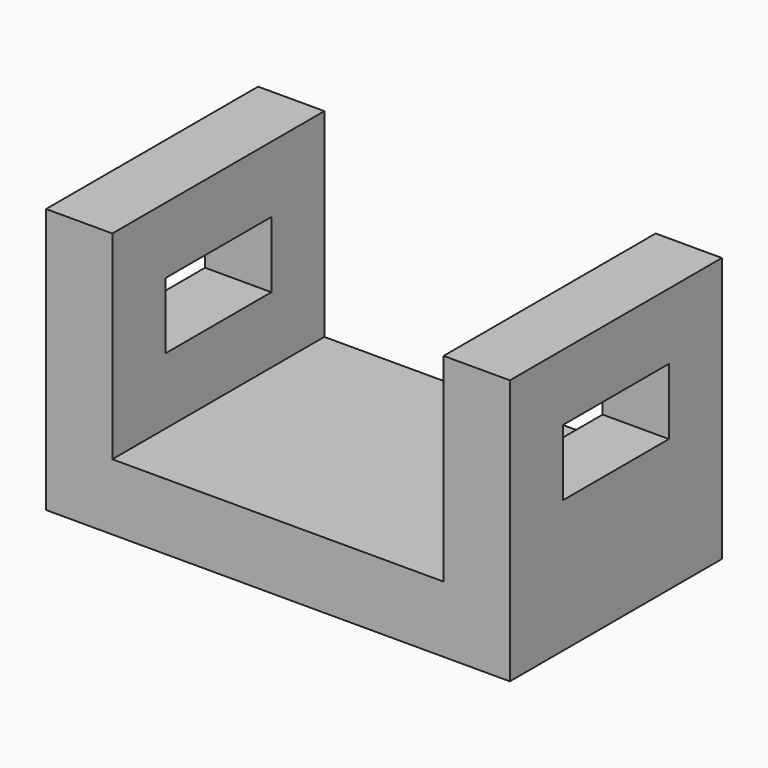
from build123d import *

# Parameters (mm, degrees)
F0_W     = 50.8
F0_H     = 50.8
F2_DEPTH = 88.9
F1_W     = 25.4
F1_H     = 12.7
F3_DEPTH = 88.901
F4_W     = 63.5
F4_H     = 38.1
F5_DEPTH = 50.801


with BuildPart() as f2:
    # F0 (on Right) → F2 (new body)
    with BuildSketch(Plane.YZ):
        Rectangle(F0_W, F0_H)
    extrude(amount=-F2_DEPTH)

    # F1 (on face) → F3 (cut, through all)
    with BuildSketch(Plane.YZ):
        with Locations((0, 6.35)):
            Rectangle(F1_W, F1_H)
    extrude(amount=-F3_DEPTH, mode=Mode.SUBTRACT)

    # F4 (on face) → F5 (cut, through all)
    with BuildSketch(Plane.XZ.offset(25.4)):
        with Locations((-44.45, 6.35)):
            Rectangle(F4_W, F4_H)
    extrude(amount=-F5_DEPTH, mode=Mode.SUBTRACT)


solid = f2.part
